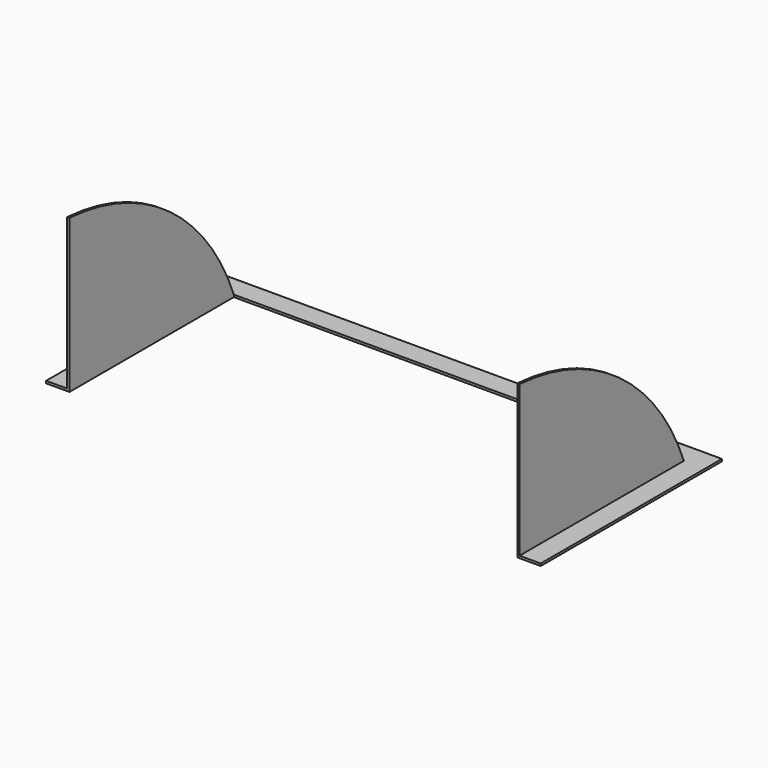
from build123d import *

# Parameters (mm, degrees)
F1_DEPTH = 3
F2_W     = 272
F2_H     = 3
F3_DEPTH = 3


with BuildPart() as f1:
    # F0 (on Top) → F1 (new body)
    with BuildSketch(Plane.XY):
        Polygon((303.7182253674, -72.5), (331.7182253674, -72.5), (331.7182253674, 227.5), (-323.2817746326, 227.5), (-323.2817746326, -72.5), (-295.2817746326, -72.5), (-295.2817746326, 199.5), (303.7182253674, 199.5), align=None)
    extrude(amount=F1_DEPTH)


with BuildPart() as f3:
    # F2 (on face) → F3 (new body)
    with BuildSketch(Plane.YZ.offset(-295.2817746326)):
        with BuildLine():
            Line((-72.5, 203), (-72.5, 3))
            Line((-72.5, 3), (199.5, 3))
            ThreePointArc((199.5, 3), (92.9573455668, 143.0619899708), (-72.5, 203))
        make_face()
        with Locations((63.5, 1.5)):
            Rectangle(F2_W, F2_H)
    extrude(amount=F3_DEPTH)


with BuildPart() as f6_1:
    # F6: instance of F3
    add(f3.part.mirror(Plane.YZ.offset(4.2182253674)))


solid = Compound([f1.part, f3.part, f6_1.part])
